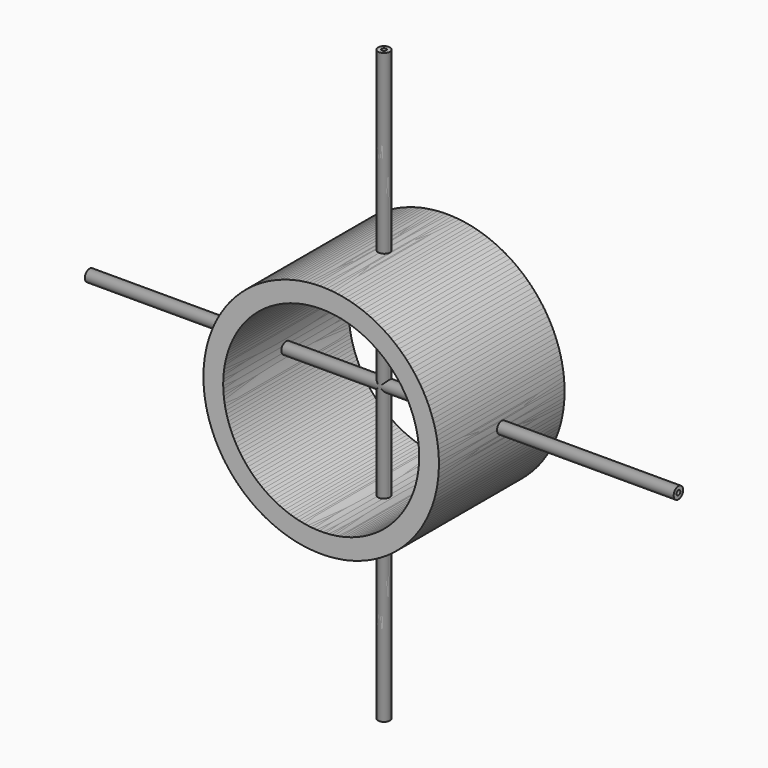
from build123d import *

# Parameters (mm, degrees)
F0_R     = 30
F0_R_2   = 25
F1_DEPTH = 20
F2_R     = 1.5
F2_R_2   = 0.601123
F3_DEPTH = 75
F5_COUNT = 4


with BuildPart() as f1:
    # F0 (on Front) → F1 (new body, symmetric)
    with BuildSketch(Plane.XZ):
        Circle(F0_R)
        Circle(F0_R_2, mode=Mode.SUBTRACT)
    extrude(amount=F1_DEPTH, both=True)

    # F2 (on Top) → F3 (join, symmetric)
    with BuildSketch(Plane.XY):
        Circle(F2_R)
        Circle(F2_R_2, mode=Mode.SUBTRACT)
    extrude(amount=F3_DEPTH, both=True)


with BuildPart() as f5_1:
    # F5: instance of F1
    add(f1.part.rotate(Axis((0, 3.475987, 0), (0, 1, 0)), 1 * 360 / F5_COUNT))


with BuildPart() as f5_2:
    # F5: instance of F1
    add(f1.part.rotate(Axis((0, 3.475987, 0), (0, 1, 0)), 2 * 360 / F5_COUNT))


with BuildPart() as f5_3:
    # F5: instance of F1
    add(f1.part.rotate(Axis((0, 3.475987, 0), (0, 1, 0)), 3 * 360 / F5_COUNT))


solid = Compound([f1.part, f5_1.part, f5_2.part, f5_3.part])
